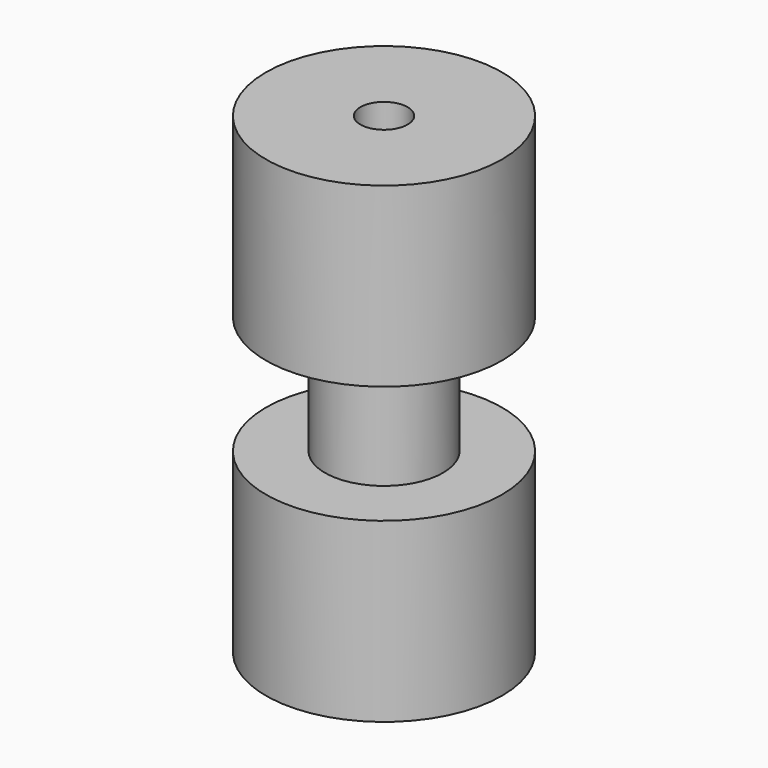
from build123d import *

# Parameters (mm, degrees)
F0_R     = 12.7
F1_DEPTH = 19.05
F2_R     = 6.35
F3_DEPTH = 12.7
F4_R     = 12.7
F5_DEPTH = 19.05
F6_R     = 2.54
F7_DEPTH = 50.8


with BuildPart() as f1:
    # F0 (on Top) → F1 (new body)
    with BuildSketch(Plane.XY):
        Circle(F0_R)
    extrude(amount=F1_DEPTH)

    # F2 (on face) → F3 (join)
    with BuildSketch(Plane.XY.offset(19.05)):
        Circle(F2_R)
    extrude(amount=F3_DEPTH)

    # F4 (on face) → F5 (join)
    with BuildSketch(Plane.XY.offset(31.75)):
        Circle(F4_R)
    extrude(amount=F5_DEPTH)

    # F6 (on face) → F7 (cut)
    with BuildSketch(Plane(origin=(0, 0, 0), x_dir=(1, 0, 0), z_dir=(0, 0, -1))):
        Circle(F6_R)
    extrude(amount=-F7_DEPTH, mode=Mode.SUBTRACT)


solid = f1.part
